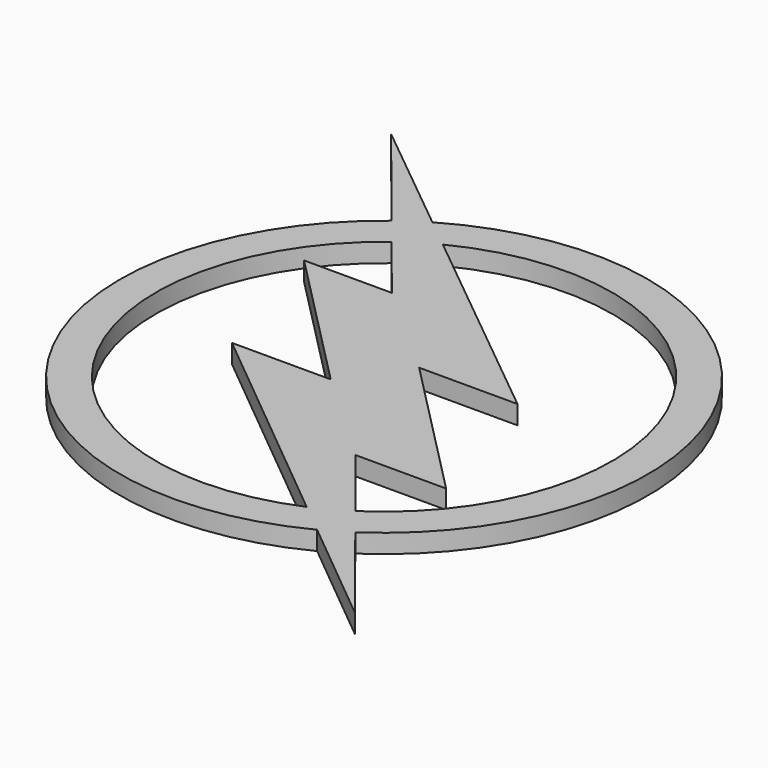
from build123d import *

# Parameters (mm, degrees)
F1_DEPTH = 5.08


with BuildPart() as f1:
    # F0 (on Top) → F1 (new body)
    with BuildSketch(Plane.XY):
        Polygon((-30.73996, 53.627926), (-62.727489, 79.665363), (-37.928027, 48.796157), (-31.880961, 41.269053), (-17.285284, 23.101039), (-40.998805, 23.101039), (-2.661946, -15.828654), (-29.339654, -15.828654), (29.78309, -64.496771), (38.018424, -71.275857), (67.885771, -95.861785), (45.034323, -67.141476), (39.001086, -59.558743), (23.094157, -39.566491), (47.522068, -39.566491), (8.569453, 0), (35.143055, 0), (-22.663309, 47.053636), align=None)
        with BuildLine():
            Line((-31.880961, 41.269053), (-37.928027, 48.796157))
            ThreePointArc((-37.928027, 48.796157), (-54.894131, -45.989389), (38.018424, -71.275857))
            Line((38.018424, -71.275857), (29.78309, -64.496771))
            ThreePointArc((29.78309, -64.496771), (-47.893768, -38.925538), (-31.880961, 41.269053))
        make_face()
        with BuildLine():
            ThreePointArc((45.034323, -67.141476), (65.788888, 30.03676), (-30.73996, 53.627926))
            Line((-30.73996, 53.627926), (-22.663309, 47.053636))
            ThreePointArc((-22.663309, 47.053636), (58.757468, 23.007783), (39.001086, -59.558743))
            Line((39.001086, -59.558743), (45.034323, -67.141476))
        make_face()
    extrude(amount=F1_DEPTH)


solid = f1.part
